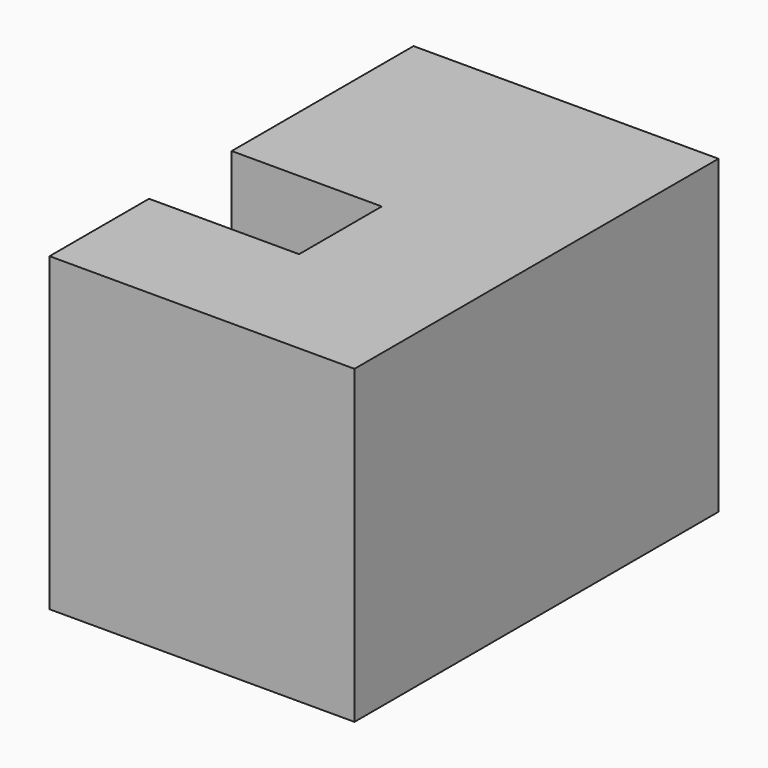
from build123d import *

# Parameters (mm, degrees)
F0_W     = 85.1225033402
F0_H     = 86.7669433355
F6_DEPTH = 127
F7_W     = 41.8898612261
F7_H     = 28.8512557745
F1_DEPTH = 25.4


with BuildPart() as f6:
    # F0 (on face) → F6 (new body)
    with BuildSketch(Plane.XZ):
        with Locations((42.5612516701, 43.3834716678)):
            Rectangle(F0_W, F0_H)
    extrude(amount=F6_DEPTH)

    # F7 (on face) → F1 (cut)
    with BuildSketch(Plane.XY.offset(86.7669433355)):
        with Locations((20.944930613, -77.8600797057)):
            Rectangle(F7_W, F7_H)
    extrude(amount=-F1_DEPTH, mode=Mode.SUBTRACT)


solid = f6.part
